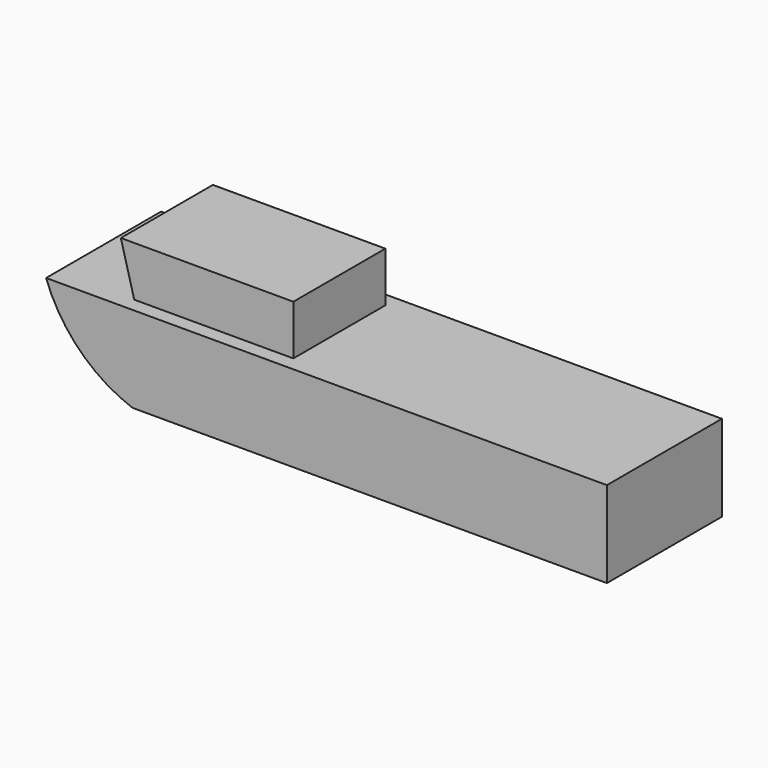
from build123d import *

# Parameters (mm, degrees)
F1_DEPTH = 1524
F3_DEPTH = 1219.2


with BuildPart() as f1:
    # F0 (on Front) → F1 (new body, symmetric)
    with BuildSketch(Plane.XZ):
        with BuildLine():
            Line((6020.744084, 1175.91892), (-5870.750042, 1175.91892))
            ThreePointArc((-5870.750042, 1175.91892), (-5158.056338, 57.186902), (-4037.655916, -652.88108))
            Line((-4037.655916, -652.88108), (6020.744084, -652.88108))
            Line((6020.744084, -652.88108), (6020.744084, 1175.91892))
        make_face()
    extrude(amount=F1_DEPTH, both=True)


with BuildPart() as f3:
    # F2 (on Front) → F3 (new body, symmetric)
    with BuildSketch(Plane.XZ):
        Polygon((-4529.224234, 2234.452117), (-4039.198751, 405.652117), (-871.624234, 405.652117), (-871.624234, 2234.452117), align=None)
    extrude(amount=F3_DEPTH, both=True)


solid = Compound([f1.part, f3.part])
